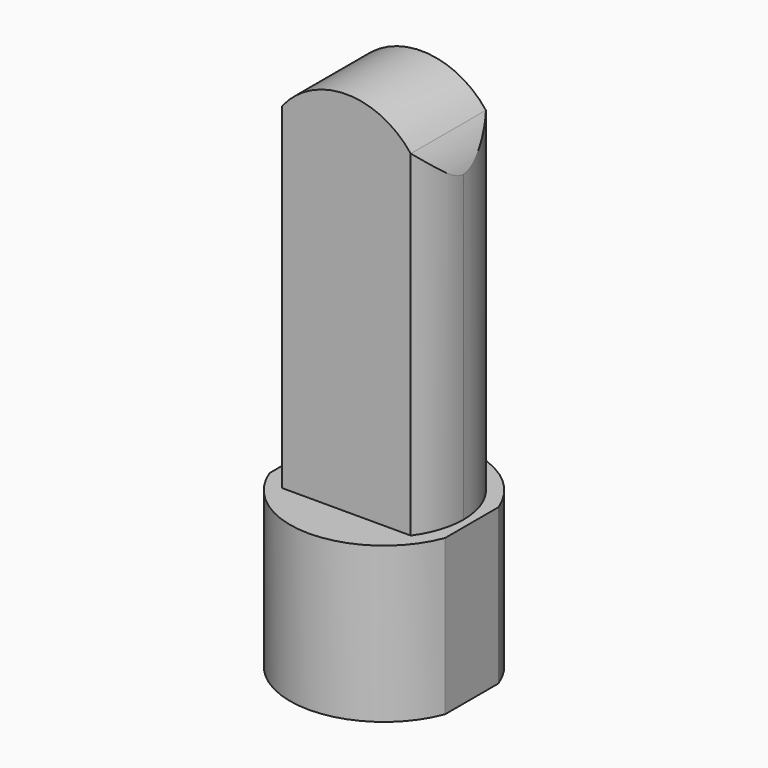
from build123d import *

# Parameters (mm, degrees)
F1_DEPTH = 965.2
F3_DEPTH = 2362.2
F5_DEPTH = 1524
F6_R     = 522.982092
F7_DEPTH = 751.84


with BuildPart() as f1:
    # F0 (on Top) → F1 (new body)
    with BuildSketch(Plane.XY):
        with BuildLine():
            Line((546.1, -207.51971), (546.1, 207.51971))
            ThreePointArc((546.1, 207.51971), (0, 584.2), (-546.1, 207.51971))
            Line((-546.1, 207.51971), (-546.1, -207.51971))
            ThreePointArc((-546.1, -207.51971), (0, -584.2), (546.1, -207.51971))
        make_face()
    extrude(amount=F1_DEPTH)

    # F2 (on face) → F3 (join)
    with BuildSketch(Plane.XY.offset(965.2)):
        with BuildLine():
            ThreePointArc((399.9996, -292.1), (470.872537, -153.626639), (495.3, 0))
            ThreePointArc((495.3, 0), (470.872537, 153.626639), (399.9996, 292.1))
            Line((399.9996, 292.1), (-399.9996, 292.1))
            ThreePointArc((-399.9996, 292.1), (-495.3, 0), (-399.9996, -292.1))
            Line((-399.9996, -292.1), (399.9996, -292.1))
        make_face()
    extrude(amount=F3_DEPTH)

    # F4 (on face) → F5 (cut)
    with BuildSketch(Plane.XZ.offset(292.1)):
        with BuildLine():
            ThreePointArc((508, 2743.2), (507.982015, 2738.925396), (507.928062, 2734.651095))
            Line((507.928062, 2734.651095), (693.923891, 3608.874083))
            Line((693.923891, 3608.874083), (-619.614959, 3534.225464))
            Line((-619.614959, 3534.225464), (-506.015009, 2788.064354))
            ThreePointArc((-506.015009, 2788.064354), (-472.451283, 2929.891686), (-399.9996, 3056.352231))
            Line((-399.9996, 3056.352231), (-399.9996, 3327.4))
            Line((-399.9996, 3327.4), (399.9996, 3327.4))
            Line((399.9996, 3327.4), (399.9996, 3056.352231))
            ThreePointArc((399.9996, 3056.352231), (480.2415, 2908.826392), (508, 2743.2))
        make_face()
        with BuildLine():
            ThreePointArc((-399.9996, 3056.352231), (0, 3251.2), (399.9996, 3056.352231))
            Line((399.9996, 3056.352231), (399.9996, 3327.4))
            Line((399.9996, 3327.4), (-399.9996, 3327.4))
            Line((-399.9996, 3327.4), (-399.9996, 3056.352231))
        make_face()
    extrude(amount=-F5_DEPTH, mode=Mode.SUBTRACT)

    # F6 (on face) → F7 (cut)
    with BuildSketch(Plane(origin=(0, 0, 0), x_dir=(1, 0, 0), z_dir=(0, 0, -1))):
        Circle(F6_R)
    extrude(amount=-F7_DEPTH, mode=Mode.SUBTRACT)


solid = f1.part
